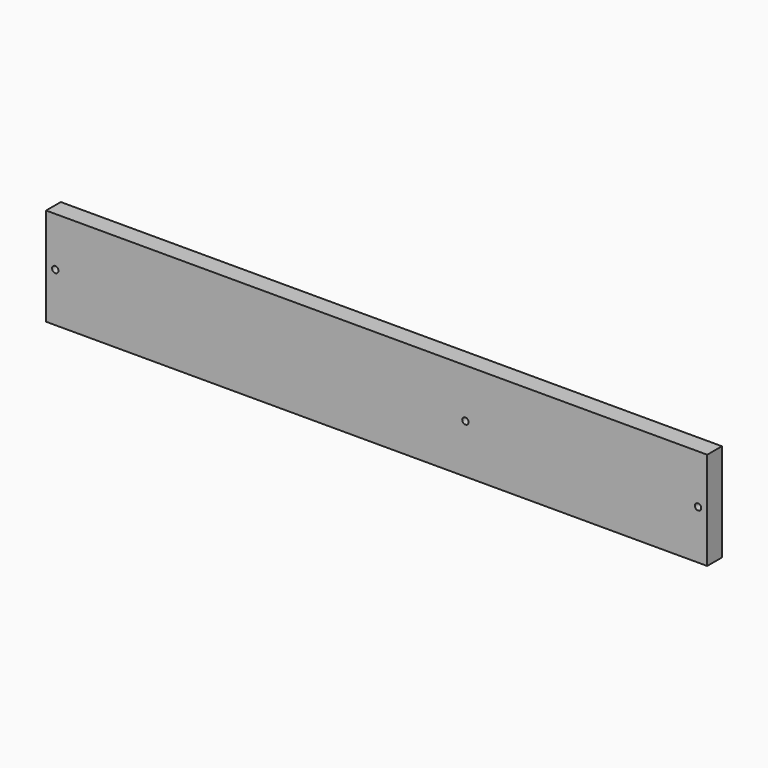
from build123d import *

# Parameters (mm, degrees)
F0_W     = 685.8
F0_H     = 101.6
F1_DEPTH = 19.05
F2_W     = 222.25
F2_H     = 14.1
F3_DEPTH = 10.16
F4_R     = 3.302
F5_DEPTH = 25.4


with BuildPart() as f1:
    # F0 (on Front) → F1 (new body)
    with BuildSketch(Plane.XZ):
        with Locations((45.375204, 0)):
            Rectangle(F0_W, F0_H)
    extrude(amount=F1_DEPTH)

    # F2 (on face) → F3 (cut)
    with BuildSketch(Plane(origin=(0, 0, 0), x_dir=(-1, 0, 0), z_dir=(0, 1, 0))):
        with Locations((-258.100204, 0)):
            Rectangle(F2_W, F2_H)
    extrude(amount=-F3_DEPTH, mode=Mode.SUBTRACT)

    # F4 (on face) → F5 (cut)
    with BuildSketch(Plane.XZ.offset(19.05)):
        with BuildLine():
            ThreePointArc((382.052204, 0), (381.085071, 2.334867), (378.750204, 3.302))
            Line((378.750204, 3.302), (378.750204, 0))
            Line((378.750204, 0), (378.750204, -3.302))
            ThreePointArc((378.750204, -3.302), (381.085071, -2.334867), (382.052204, 0))
        make_face()
        with BuildLine():
            Line((378.750204, 0), (378.750204, 3.302))
            ThreePointArc((378.750204, 3.302), (375.448204, 0), (378.750204, -3.302))
            Line((378.750204, -3.302), (378.750204, 0))
        make_face()
        with Locations((137.450204, 0)):
            Circle(F4_R)
        with Locations((-287.999796, 0)):
            Circle(F4_R)
    extrude(amount=-F5_DEPTH, mode=Mode.SUBTRACT)


solid = f1.part
